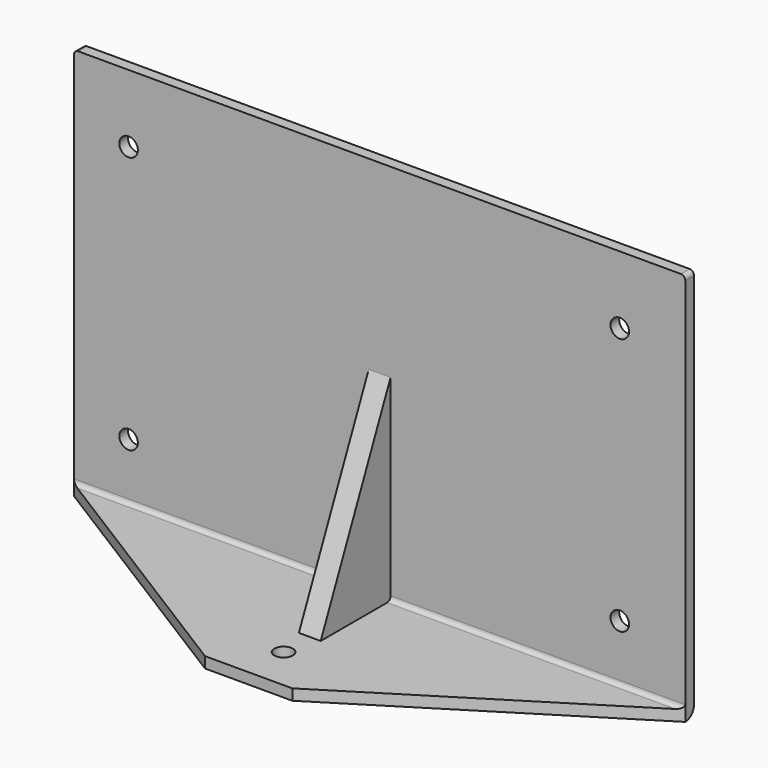
from build123d import *

# Parameters (mm, degrees)
F1_DEPTH  = 280
F2_R      = 4.25
F3_DEPTH  = 5.001
F4_R      = 2
F5_R      = 4.25
F6_DEPTH  = 5.001
F7_R      = 5
F8_W      = 10
F8_H      = 90
F9_DEPTH  = 40
F11_DEPTH = 145.001
F13_DEPTH = 5.001
F14_R     = 2


with BuildPart() as f1:
    # F0 (on Right) → F1 (new body)
    with BuildSketch(Plane.YZ):
        Polygon((0, -90), (0, 90), (-5, 90), (-5, -85), (-80, -85), (-80, -90), align=None)
    extrude(amount=F1_DEPTH)

    # F2 (on face) → F3 (cut, through all)
    with BuildSketch(Plane.XZ.offset(5)):
        with Locations((25, 59)):
            Circle(F2_R)
        with Locations((25, -59)):
            Circle(F2_R)
        with Locations((250, -59)):
            Circle(F2_R)
        with Locations((250, 59)):
            Circle(F2_R)
    extrude(amount=-F3_DEPTH, mode=Mode.SUBTRACT)

    # F4
    f4_edges = [f1.edges().sort_by_distance(p)[0] for p in [
        (0, -2.5, 90),
        (280, -2.5, 90),
        (280, -80, -87.5),
        (0, -80, -87.5),
    ]]
    fillet(f4_edges, radius=F4_R)

    # F5 (on face) → F6 (cut, through all)
    with BuildSketch(Plane.XY.offset(-85)):
        with Locations((140, -60)):
            Circle(F5_R)
    extrude(amount=-F6_DEPTH, mode=Mode.SUBTRACT)

    # F7
    f7_edges = [f1.edges().sort_by_distance(p)[0] for p in [
        (140, 0, -90),
    ]]
    fillet(f7_edges, radius=F7_R)

    # F8 (on face) → F9 (join)
    with BuildSketch(Plane.XZ.offset(5)):
        with Locations((140, -40)):
            Rectangle(F8_W, F8_H)
    extrude(amount=F9_DEPTH)

    # F10 (on face) → F11 (cut, through all)
    with BuildSketch(Plane.YZ.offset(145)):
        Polygon((-45, -85), (-5, 5), (-45, 5), align=None)
    extrude(amount=-F11_DEPTH, mode=Mode.SUBTRACT)

    # F12 (on face) → F13 (cut, through all)
    with BuildSketch(Plane.XY.offset(-85)):
        with BuildLine():
            Line((2, -80), (120, -80))
            Line((120, -80), (0, -5))
            Line((0, -5), (0, -78))
            ThreePointArc((0, -78), (0.5857864376, -79.4142135624), (2, -80))
        make_face()
        with BuildLine():
            Line((280, -78), (280, -5))
            Line((280, -5), (160, -80))
            Line((160, -80), (278, -80))
            ThreePointArc((278, -80), (279.4142135624, -79.4142135624), (280, -78))
        make_face()
    extrude(amount=-F13_DEPTH, mode=Mode.SUBTRACT)

    # F14
    f14_edges = [f1.edges().sort_by_distance(p)[0] for p in [
        (67.5, -5, -85),
        (212.5, -5, -85),
    ]]
    fillet(f14_edges, radius=F14_R)


solid = f1.part
